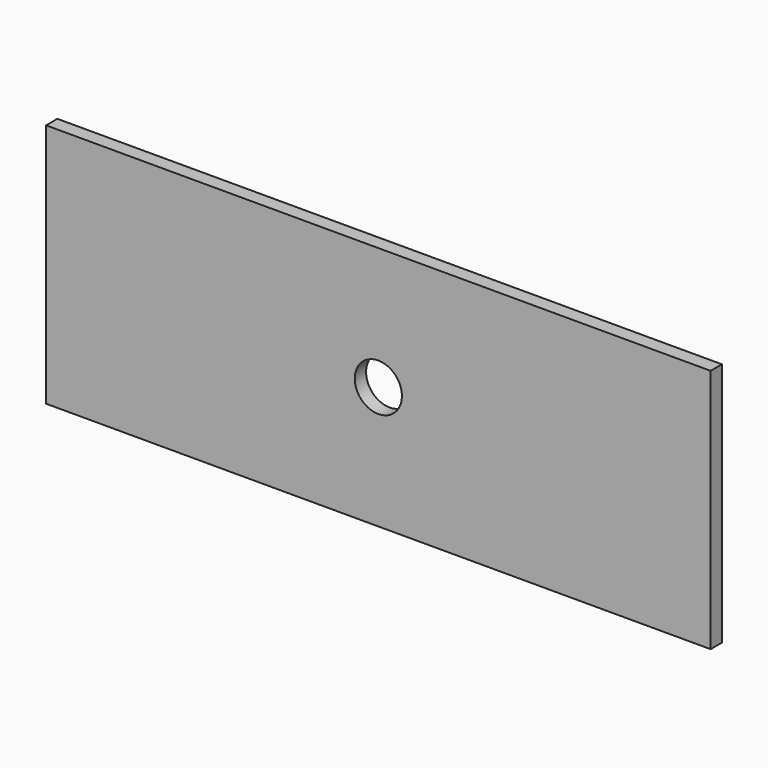
from build123d import *

# Parameters (mm, degrees)
F0_W     = 141
F0_H     = 52
F1_DEPTH = 1.5
F2_R     = 5
F3_DEPTH = 3


with BuildPart() as f1:
    # F0 (on Front) → F1 (new body, symmetric)
    with BuildSketch(Plane.XZ):
        Rectangle(F0_W, F0_H)
    extrude(amount=F1_DEPTH, both=True)

    # F2 (on face) → F3 (cut, through all)
    with BuildSketch(Plane(origin=(0, 1.5, 0), x_dir=(-1, 0, 0), z_dir=(0, 1, 0))):
        Circle(F2_R)
    extrude(amount=-F3_DEPTH, mode=Mode.SUBTRACT)


solid = f1.part
